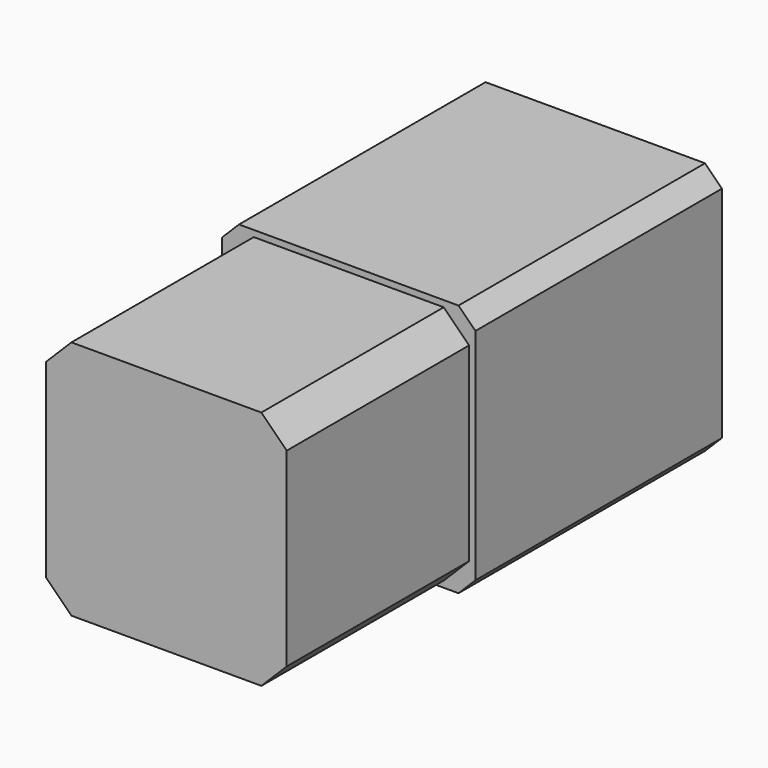
from build123d import *

# Parameters (mm, degrees)
SKETCH025_W     = 60
SKETCH025_H     = 60
PAD022_DEPTH    = 73
SKETCH026_W     = 57
SKETCH026_H     = 57
PAD023_DEPTH    = 54
CHAMFER_SIZE    = 6
CHAMFER001_SIZE = 4


with BuildPart() as part:
    # Sketch025 → Pad022 (new body)
    with BuildSketch(Plane.XZ):
        Rectangle(SKETCH025_W, SKETCH025_H)
    extrude(amount=PAD022_DEPTH)

    # Sketch026 (on Face6 of Pad022) → Pad023 (join)
    with BuildSketch(Plane.XZ.offset(73)):
        Rectangle(SKETCH026_W, SKETCH026_H)
    extrude(amount=PAD023_DEPTH)

    # Chamfer
    chamfer_edges = [part.edges().sort_by_distance(p)[0] for p in [
        (-28.5, -100, 28.5),
        (-28.5, -100, -28.5),
        (28.5, -100, -28.5),
        (28.5, -100, 28.5),
    ]]
    chamfer(chamfer_edges, length=CHAMFER_SIZE)

    # Chamfer001
    chamfer001_edges = [part.edges().sort_by_distance(p)[0] for p in [
        (30, -36.5, 30),
        (-30, -36.5, -30),
        (-30, -36.5, 30),
        (30, -36.5, -30),
    ]]
    chamfer(chamfer001_edges, length=CHAMFER001_SIZE)


with BuildPart() as part_1:
    # Clone013 placement: moved
    add(part.part.moved(Location((107, -51.2, 120))))


solid = part_1.part
